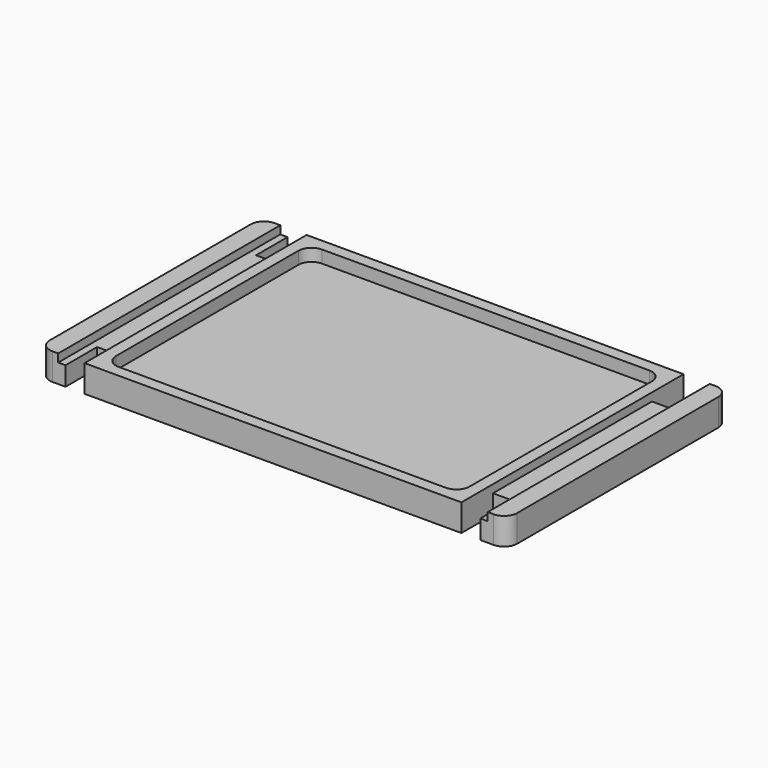
from build123d import *

# Parameters (mm, degrees)
PAD003_DEPTH    = 18.5
SKETCH005_W     = 18
SKETCH005_H     = 190
POCKET_DEPTH    = 5.5
POCKET001_DEPTH = 8.5


with BuildPart() as part:
    # Clone2D002 → Pad003 (new body)
    with BuildSketch(Plane.XY):
        with BuildLine():
            Line((-151, 95), (-142, 95))
            Line((-142, 95), (-142, 68))
            Line((-142, 68), (-129, 68))
            Line((-129, 68), (-129, 95))
            Line((-129, 95), (129, 95))
            Line((129, 95), (129, 68))
            Line((129, 68), (142, 68))
            Line((142, 68), (142, 95))
            Line((142, 95), (151, 95))
            ThreePointArc((151, 95), (157.363961, 92.363961), (160, 86))
            Line((160, 86), (160, -86))
            ThreePointArc((160, -86), (157.363961, -92.363961), (151, -95))
            Line((151, -95), (142, -95))
            Line((142, -95), (142, -68))
            Line((142, -68), (129, -68))
            Line((129, -68), (129, -95))
            Line((129, -95), (-129, -95))
            Line((-129, -95), (-129, -68))
            Line((-129, -68), (-142, -68))
            Line((-142, -68), (-142, -95))
            Line((-142, -95), (-151, -95))
            ThreePointArc((-151, -95), (-157.363961, -92.363961), (-160, -86))
            Line((-160, -86), (-160, 86))
            ThreePointArc((-160, 86), (-157.363961, 92.363961), (-151, 95))
        make_face()
    extrude(amount=PAD003_DEPTH)

    # Sketch005 (on Face26 of Pad003) → Pocket (cut)
    with BuildSketch(Plane.XY.offset(18.5)):
        with Locations((-138, 0)):
            Rectangle(SKETCH005_W, SKETCH005_H)
    pocket = extrude(amount=-POCKET_DEPTH, mode=Mode.SUBTRACT)

    # Mirrored: Pocket across Sketch005 V_Axis
    add(pocket.mirror(Plane(origin=(0, 0, 18.5), x_dir=(0, 0, 1), z_dir=(1, 0, 0))), mode=Mode.SUBTRACT)

    # Sketch006 (on Face31 of Pocket) → Pocket001 (cut)
    with BuildSketch(Plane.XY.offset(18.5)):
        with BuildLine():
            Line((-112, 87), (112, 87))
            ThreePointArc((121, 78), (118.363961, 84.363961), (112, 87))
            Line((121, 78), (121, -78))
            ThreePointArc((112, -87), (118.363961, -84.363961), (121, -78))
            Line((112, -87), (-112, -87))
            ThreePointArc((-121, -78), (-118.363961, -84.363961), (-112, -87))
            Line((-121, -78), (-121, 78))
            ThreePointArc((-112, 87), (-118.363961, 84.363961), (-121, 78))
        make_face()
    pocket001 = extrude(amount=-POCKET001_DEPTH, mode=Mode.SUBTRACT)

    # Mirrored001: Pocket001 across Sketch006 V_Axis
    add(pocket001.mirror(Plane(origin=(0, 0, 18.5), x_dir=(0, 0, 1), z_dir=(1, 0, 0))), mode=Mode.SUBTRACT)


with BuildPart() as part_1:
    # Clone001 placement: moved
    add(part.part.moved(Location((0, 0, 35))))


solid = part_1.part
